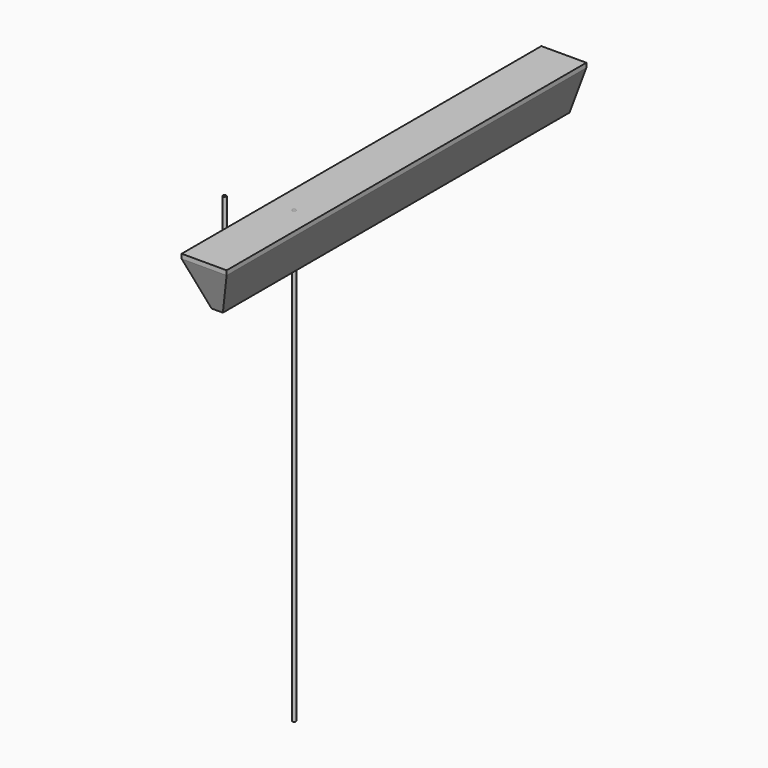
from build123d import *

# Parameters (mm, degrees)
F0_W      = 20
F0_H      = 200
F1_DEPTH  = 20
F3_DEPTH  = 200.001
F5_DEPTH  = 20.001
F6_W      = 20
F6_H      = 200
F7_DEPTH  = 2
F8_R      = 0.8
F9_DEPTH  = 200
F10_R     = 0.75
F11_DEPTH = 20


with BuildPart() as f1:
    # F0 (on Top) → F1 (new body)
    with BuildSketch(Plane.XY):
        with Locations((10, 100)):
            Rectangle(F0_W, F0_H)
    extrude(amount=F1_DEPTH)

    # F2 (on face) → F3 (cut, through all)
    with BuildSketch(Plane.XZ):
        Polygon((7.5, 0), (0, 20), (0, 0), align=None)
        Polygon((20, 20), (12.5, 0), (20, 0), align=None)
    extrude(amount=-F3_DEPTH, mode=Mode.SUBTRACT)

    # F4 (on Right) → F5 (cut, through all)
    with BuildSketch(Plane.YZ):
        Polygon((0, 20), (0, 0), (7.2794046853, 0), align=None)
    extrude(amount=F5_DEPTH, mode=Mode.SUBTRACT)


with BuildPart() as f7:
    # F6 (on face) → F7 (new body)
    with BuildSketch(Plane.XY.offset(20)):
        with Locations((10, 100)):
            Rectangle(F6_W, F6_H)
    extrude(amount=F7_DEPTH)


with BuildPart() as f9:
    # F8 (on face) → F9 (new body)
    with BuildSketch(Plane.XY.offset(22)):
        with Locations((10, 50)):
            Circle(F8_R)
    extrude(amount=-F9_DEPTH)


with BuildPart() as f11:
    # F10 (on Top) → F11 (new body)
    with BuildSketch(Plane.XY):
        with Locations((-17.920082435, 46.270493418)):
            Circle(F10_R)
    extrude(amount=F11_DEPTH)


solid = Compound([f1.part, f7.part, f9.part, f11.part])
